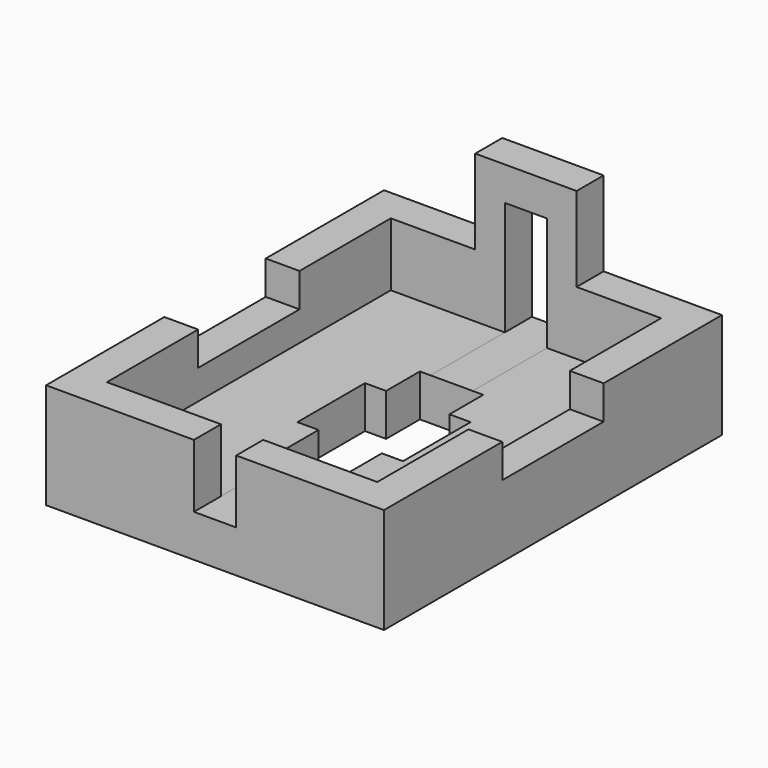
from build123d import *

# Parameters (mm, degrees)
SKETCH_W        = 80
SKETCH_H        = 100
PAD_DEPTH       = 25
SKETCH001_W     = 64
SKETCH001_H     = 84
POCKET_DEPTH    = 15
SKETCH002_W     = 10
SKETCH002_H     = 27.891991
POCKET001_DEPTH = 100.001
SKETCH003_W     = 30
SKETCH003_H     = 18.544697
POCKET002_DEPTH = 80.001
PAD001_DEPTH    = 8
POCKET003_DEPTH = 10


with BuildPart() as part:
    # Sketch → Pad (new body)
    with BuildSketch(Plane.XY):
        Rectangle(SKETCH_W, SKETCH_H)
    extrude(amount=PAD_DEPTH)

    # Sketch001 → Pocket (cut)
    with BuildSketch(Plane.XY.offset(25)):
        Rectangle(SKETCH001_W, SKETCH001_H)
    extrude(amount=-POCKET_DEPTH, mode=Mode.SUBTRACT)

    # Sketch002 → Pocket001 (cut, through all)
    with BuildSketch(Plane.XZ.offset(50)):
        with Locations((0, 23.945995)):
            Rectangle(SKETCH002_W, SKETCH002_H)
    extrude(amount=-POCKET001_DEPTH, mode=Mode.SUBTRACT)

    # Sketch003 → Pocket002 (cut, through all)
    with BuildSketch(Plane.YZ.offset(40)):
        with Locations((0, 26.272348)):
            Rectangle(SKETCH003_W, SKETCH003_H)
    extrude(amount=-POCKET002_DEPTH, mode=Mode.SUBTRACT)

    # Sketch004 → Pad001 (new body)
    with BuildSketch(Plane(origin=(0, 50, 0), x_dir=(-1, 0, 0), z_dir=(0, 1, 0))):
        Polygon((12, 25), (12, 45), (-12, 45), (-12, 25), (-5, 25), (-5, 37), (5, 37), (5, 25), align=None)
    extrude(amount=-PAD001_DEPTH)

    # Sketch005 → Pocket003 (cut)
    with BuildSketch(Plane.XY.offset(10)):
        Polygon((-7.5, 10), (-7.5, 20), (7.5, 20), (7.5, 10), (12.5, 10), (12.5, -10), (7.5, -10), (7.5, -20), (-7.5, -20), (-7.5, -10), (-12.5, -10), (-12.5, 10), align=None)
    extrude(amount=-POCKET003_DEPTH, mode=Mode.SUBTRACT)


solid = part.part
